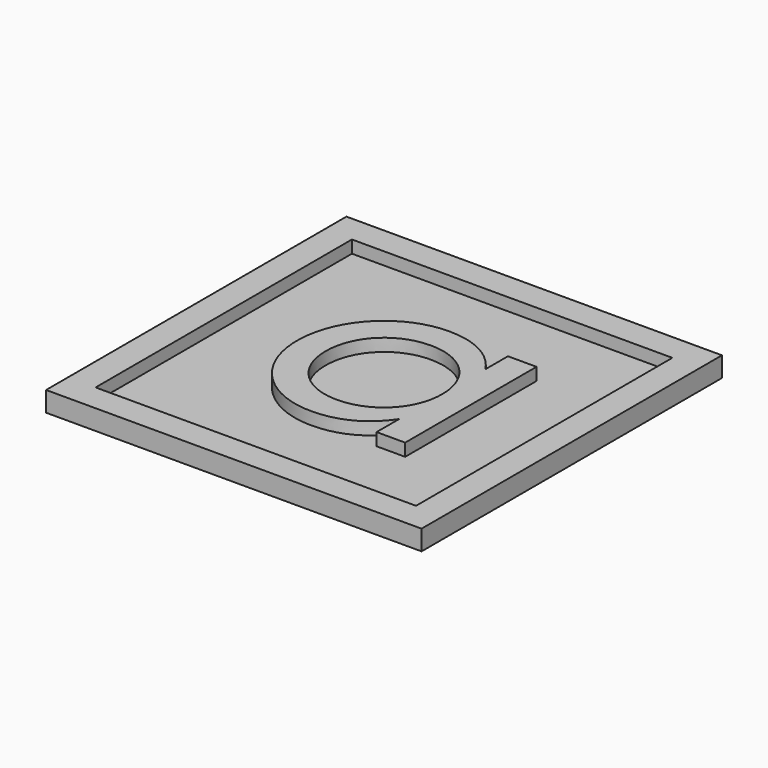
from build123d import *

# Parameters (mm, degrees)
F0_W     = 128.020003438
F0_H     = 128.020003438
F1_DEPTH = 3
F2_DEPTH = 8


with BuildPart() as f1:
    # F0 (on Top) → F1 (new body)
    with BuildSketch(Plane.XY):
        Polygon((-75, -75), (75.010001719, -75), (75.010001719, 75), (75.010001719, 75.010001719), (75, 75.010001719), (-75, 75.010001719), align=None)
        Rectangle(F0_W, F0_H, mode=Mode.SUBTRACT)
        Rectangle(F0_W, F0_H)
        with BuildLine():
            Line((23.2858875, 32.7976875), (34.6993875, 32.7976875))
            Line((34.6993875, 32.7976875), (34.6993875, -32.797125))
            Line((34.6993875, -32.797125), (23.2858875, -32.797125))
            Line((23.2858875, -32.797125), (23.2858875, -21.5146875))
            add(Edge.make_bspline(
                [(23.2858875, -21.5146875), (18.038325, -29.51775), (9.642075, -34.502625), (-1.5087375, -34.502625)],
                knots=[0, 0, 0, 0, 1, 1, 1, 1], degree=3))
            add(Edge.make_bspline(
                [(-1.5087375, -34.502625), (-19.7442375, -34.502625), (-34.699425, -19.416), (-34.699425, 0.000375)],
                knots=[0, 0, 0, 0, 1, 1, 1, 1], degree=3))
            add(Edge.make_bspline(
                [(-34.699425, 0.000375), (-34.699425, 19.416), (-19.7442375, 34.502625), (-1.5087375, 34.502625)],
                knots=[0, 0, 0, 0, 1, 1, 1, 1], degree=3))
            add(Edge.make_bspline(
                [(-1.5087375, 34.502625), (9.642075, 34.502625), (18.038325, 29.51775), (23.2858875, 21.5146875)],
                knots=[0, 0, 0, 0, 1, 1, 1, 1], degree=3))
            Line((23.2858875, 21.5146875), (23.2858875, 32.7976875))
        make_face(mode=Mode.SUBTRACT)
        with BuildLine():
            Line((34.6993875, -32.797125), (34.6993875, 32.7976875))
            Line((34.6993875, 32.7976875), (23.2858875, 32.7976875))
            Line((23.2858875, 32.7976875), (23.2858875, 21.5146875))
            add(Edge.make_bspline(
                [(-1.5087375, 34.502625), (9.642075, 34.502625), (18.038325, 29.51775), (23.2858875, 21.5146875)],
                knots=[0, 0, 0, 0, 1, 1, 1, 1], degree=3))
            add(Edge.make_bspline(
                [(-34.699425, 0.000375), (-34.699425, 19.416), (-19.7442375, 34.502625), (-1.5087375, 34.502625)],
                knots=[0, 0, 0, 0, 1, 1, 1, 1], degree=3))
            add(Edge.make_bspline(
                [(-1.5087375, -34.502625), (-19.7442375, -34.502625), (-34.699425, -19.416), (-34.699425, 0.000375)],
                knots=[0, 0, 0, 0, 1, 1, 1, 1], degree=3))
            add(Edge.make_bspline(
                [(23.2858875, -21.5146875), (18.038325, -29.51775), (9.642075, -34.502625), (-1.5087375, -34.502625)],
                knots=[0, 0, 0, 0, 1, 1, 1, 1], degree=3))
            Line((23.2858875, -21.5146875), (23.2858875, -32.797125))
            Line((23.2858875, -32.797125), (34.6993875, -32.797125))
        make_face()
        with BuildLine():
            add(Edge.make_bspline(
                [(23.2858875, 0.000375), (23.2858875, 13.3815), (13.184325, 23.4830625), (-0.0657375, 23.4830625)],
                knots=[0, 0, 0, 0, 1, 1, 1, 1], degree=3))
            add(Edge.make_bspline(
                [(-0.0657375, -23.4823125), (13.184325, -23.4823125), (23.2858875, -13.3813125), (23.2858875, 0.000375)],
                knots=[0, 0, 0, 0, 1, 1, 1, 1], degree=3))
            add(Edge.make_bspline(
                [(-23.285925, 0.000375), (-23.285925, -13.3813125), (-13.1847375, -23.4823125), (-0.0657375, -23.4823125)],
                knots=[0, 0, 0, 0, 1, 1, 1, 1], degree=3))
            add(Edge.make_bspline(
                [(-0.0657375, 23.4830625), (-13.1847375, 23.4830625), (-23.285925, 13.3815), (-23.285925, 0.000375)],
                knots=[0, 0, 0, 0, 1, 1, 1, 1], degree=3))
        make_face(mode=Mode.SUBTRACT)
        with BuildLine():
            add(Edge.make_bspline(
                [(-0.0657375, -23.4823125), (13.184325, -23.4823125), (23.2858875, -13.3813125), (23.2858875, 0.000375)],
                knots=[0, 0, 0, 0, 1, 1, 1, 1], degree=3))
            add(Edge.make_bspline(
                [(23.2858875, 0.000375), (23.2858875, 13.3815), (13.184325, 23.4830625), (-0.0657375, 23.4830625)],
                knots=[0, 0, 0, 0, 1, 1, 1, 1], degree=3))
            add(Edge.make_bspline(
                [(-0.0657375, 23.4830625), (-13.1847375, 23.4830625), (-23.285925, 13.3815), (-23.285925, 0.000375)],
                knots=[0, 0, 0, 0, 1, 1, 1, 1], degree=3))
            add(Edge.make_bspline(
                [(-23.285925, 0.000375), (-23.285925, -13.3813125), (-13.1847375, -23.4823125), (-0.0657375, -23.4823125)],
                knots=[0, 0, 0, 0, 1, 1, 1, 1], degree=3))
        make_face()
    extrude(amount=F1_DEPTH)

    # F0 (on Top) → F2 (join)
    with BuildSketch(Plane.XY):
        Polygon((-75, -75), (75.010001719, -75), (75.010001719, 75), (75.010001719, 75.010001719), (75, 75.010001719), (-75, 75.010001719), align=None)
        Rectangle(F0_W, F0_H, mode=Mode.SUBTRACT)
        with BuildLine():
            Line((34.6993875, -32.797125), (34.6993875, 32.7976875))
            Line((34.6993875, 32.7976875), (23.2858875, 32.7976875))
            Line((23.2858875, 32.7976875), (23.2858875, 21.5146875))
            add(Edge.make_bspline(
                [(-1.5087375, 34.502625), (9.642075, 34.502625), (18.038325, 29.51775), (23.2858875, 21.5146875)],
                knots=[0, 0, 0, 0, 1, 1, 1, 1], degree=3))
            add(Edge.make_bspline(
                [(-34.699425, 0.000375), (-34.699425, 19.416), (-19.7442375, 34.502625), (-1.5087375, 34.502625)],
                knots=[0, 0, 0, 0, 1, 1, 1, 1], degree=3))
            add(Edge.make_bspline(
                [(-1.5087375, -34.502625), (-19.7442375, -34.502625), (-34.699425, -19.416), (-34.699425, 0.000375)],
                knots=[0, 0, 0, 0, 1, 1, 1, 1], degree=3))
            add(Edge.make_bspline(
                [(23.2858875, -21.5146875), (18.038325, -29.51775), (9.642075, -34.502625), (-1.5087375, -34.502625)],
                knots=[0, 0, 0, 0, 1, 1, 1, 1], degree=3))
            Line((23.2858875, -21.5146875), (23.2858875, -32.797125))
            Line((23.2858875, -32.797125), (34.6993875, -32.797125))
        make_face()
        with BuildLine():
            add(Edge.make_bspline(
                [(23.2858875, 0.000375), (23.2858875, 13.3815), (13.184325, 23.4830625), (-0.0657375, 23.4830625)],
                knots=[0, 0, 0, 0, 1, 1, 1, 1], degree=3))
            add(Edge.make_bspline(
                [(-0.0657375, -23.4823125), (13.184325, -23.4823125), (23.2858875, -13.3813125), (23.2858875, 0.000375)],
                knots=[0, 0, 0, 0, 1, 1, 1, 1], degree=3))
            add(Edge.make_bspline(
                [(-23.285925, 0.000375), (-23.285925, -13.3813125), (-13.1847375, -23.4823125), (-0.0657375, -23.4823125)],
                knots=[0, 0, 0, 0, 1, 1, 1, 1], degree=3))
            add(Edge.make_bspline(
                [(-0.0657375, 23.4830625), (-13.1847375, 23.4830625), (-23.285925, 13.3815), (-23.285925, 0.000375)],
                knots=[0, 0, 0, 0, 1, 1, 1, 1], degree=3))
        make_face(mode=Mode.SUBTRACT)
    extrude(amount=F2_DEPTH)


solid = f1.part
